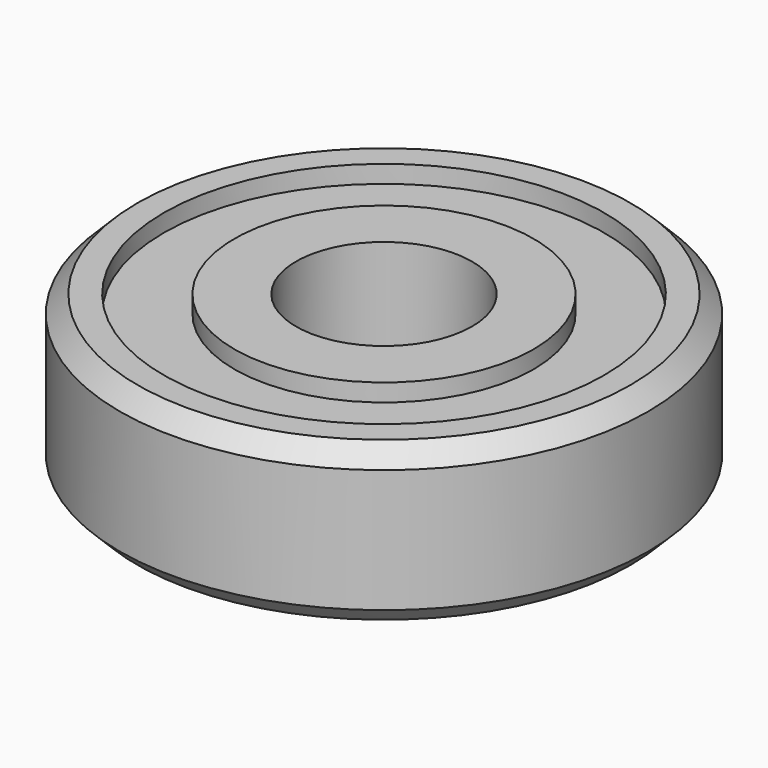
from build123d import *

# Parameters (mm, degrees)
SKETCH_R      = 8.5
SKETCH_R_2    = 5
PAD_DEPTH     = 9
SKETCH001_R   = 12.5
SKETCH001_R_2 = 8.5
PAD001_DEPTH  = 7
SKETCH002_R   = 15
SKETCH002_R_2 = 12.5
PAD002_DEPTH  = 9
CHAMFER_SIZE  = 1


with BuildPart() as part:
    # Sketch → Pad (new body)
    with BuildSketch(Plane.XY):
        Circle(SKETCH_R)
        Circle(SKETCH_R_2, mode=Mode.SUBTRACT)
    extrude(amount=PAD_DEPTH)

    # Sketch001 (on Face3 of Pad) → Pad001 (join)
    with BuildSketch(Plane(origin=(0, 0, 1), x_dir=(1, 0, 0), z_dir=(0, 0, -1))):
        Circle(SKETCH001_R)
        Circle(SKETCH001_R_2, mode=Mode.SUBTRACT)
    extrude(amount=-PAD001_DEPTH)

    # Sketch002 (on Face2 of Pad001) → Pad002 (join)
    with BuildSketch(Plane(origin=(0, 0, 0), x_dir=(1, 0, 0), z_dir=(0, 0, -1))):
        Circle(SKETCH002_R)
        Circle(SKETCH002_R_2, mode=Mode.SUBTRACT)
    extrude(amount=-PAD002_DEPTH)

    # Chamfer
    chamfer_edges = [part.edges().sort_by_distance(p)[0] for p in [
        (-15, 0, 9),
        (-15, 0, 0),
    ]]
    chamfer(chamfer_edges, length=CHAMFER_SIZE)


solid = part.part
